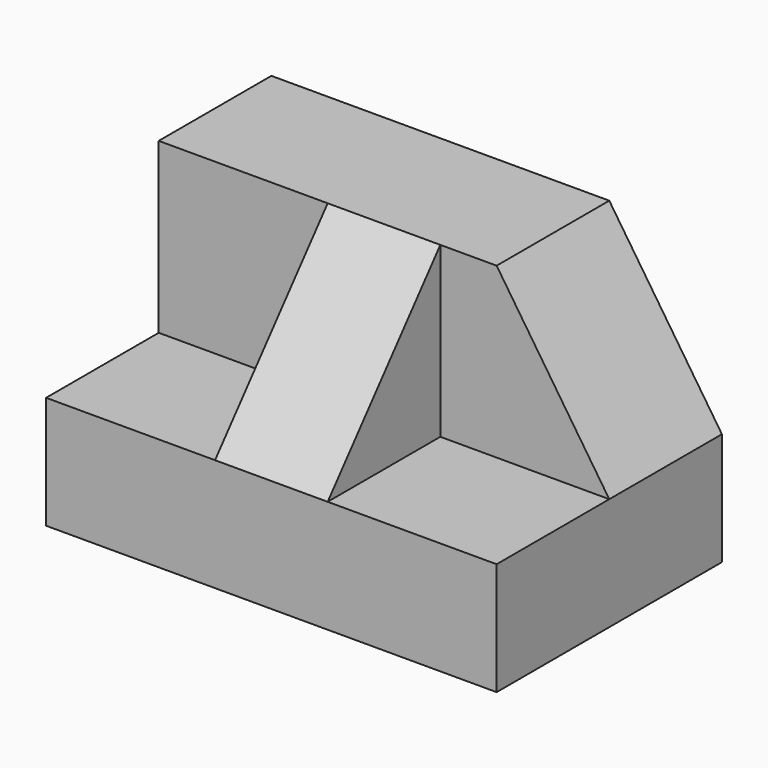
from build123d import *

# Parameters (mm, degrees)
F0_W     = 50.8
F0_H     = 12.7
F1_DEPTH = 31.75
F2_W     = 50.8
F2_H     = 15.875
F3_DEPTH = 19.05
F5_DEPTH = 25.4
F6_W     = 12.7
F6_H     = 15.875
F7_DEPTH = 19.05
F9_DEPTH = 31.751


with BuildPart() as f1:
    # F0 (on Front) → F1 (new body)
    with BuildSketch(Plane.XZ):
        with Locations((25.4, -6.35)):
            Rectangle(F0_W, F0_H)
    extrude(amount=F1_DEPTH)

    # F2 (on face) → F3 (join)
    with BuildSketch(Plane.XY):
        with Locations((25.4, -7.9375)):
            Rectangle(F2_W, F2_H)
    extrude(amount=F3_DEPTH)

    # F4 (on face) → F5 (cut)
    with BuildSketch(Plane.XZ.offset(15.875)):
        Polygon((50.8, 0), (50.8, 19.05), (38.1, 19.05), align=None)
    extrude(amount=-F5_DEPTH, mode=Mode.SUBTRACT)

    # F6 (on face) → F7 (join)
    with BuildSketch(Plane.XY):
        with Locations((25.4, -23.8125)):
            Rectangle(F6_W, F6_H)
    extrude(amount=F7_DEPTH)

    # F8 (on face) → F9 (cut, through all)
    with BuildSketch(Plane.YZ.offset(31.75)):
        Polygon((-31.75, 0), (-15.875, 19.05), (-31.75, 19.05), align=None)
    extrude(amount=-F9_DEPTH, mode=Mode.SUBTRACT)


solid = f1.part
